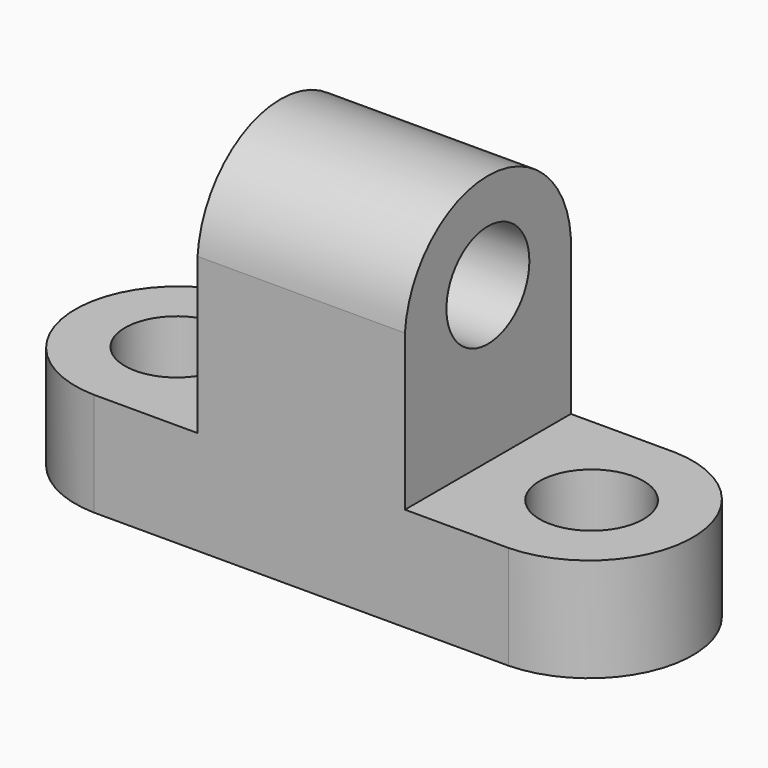
from build123d import *

# Parameters (mm, degrees)
F0_W      = 76.2
F0_H      = 25.4
F1_DEPTH  = 12.7
F2_R      = 6.35
F3_DEPTH  = 25.4
F4_W      = 25.4
F4_H      = 25.4
F5_DEPTH  = 31.75
F7_DEPTH  = 25.4
F9_DEPTH  = 25.4
F10_R     = 6.35
F11_DEPTH = 25.4
F13_DEPTH = 25.4


with BuildPart() as f1:
    # F0 (on Top) → F1 (new body)
    with BuildSketch(Plane.XY):
        with Locations((2.1738717566, 12.7)):
            Rectangle(F0_W, F0_H)
    extrude(amount=F1_DEPTH)

    # F2 (on face) → F3 (cut)
    with BuildSketch(Plane.XY.offset(12.7)):
        with Locations((-23.2261282434, 12.7)):
            Circle(F2_R)
        with Locations((27.5738717566, 12.7)):
            Circle(F2_R)
    extrude(amount=-F3_DEPTH, mode=Mode.SUBTRACT)

    # F4 (on face) → F5 (join)
    with BuildSketch(Plane.XY.offset(12.7)):
        with Locations((2.1738717566, 12.7)):
            Rectangle(F4_W, F4_H)
    extrude(amount=F5_DEPTH)

    # F6 (on face) → F7 (cut)
    with BuildSketch(Plane.XY.offset(12.7)):
        with BuildLine():
            ThreePointArc((27.5738717566, 25.4), (39.9715783926, 12.7), (27.5738717566, 0))
            Line((27.5738717566, 0), (40.2738717566, 0))
            Line((40.2738717566, 0), (40.2738717566, 25.4))
            Line((40.2738717566, 25.4), (27.5738717566, 25.4))
        make_face()
    extrude(amount=-F7_DEPTH, mode=Mode.SUBTRACT)

    # F8 (on face) → F9 (cut)
    with BuildSketch(Plane.XY.offset(12.7)):
        with BuildLine():
            ThreePointArc((-23.2261282434, 0), (-35.6730291754, 12.7), (-23.2261282434, 25.4))
            Line((-23.2261282434, 25.4), (-35.9261282434, 25.4))
            Line((-35.9261282434, 25.4), (-35.9261282434, 0))
            Line((-35.9261282434, 0), (-23.2261282434, 0))
        make_face()
    extrude(amount=-F9_DEPTH, mode=Mode.SUBTRACT)

    # F10 (on face) → F11 (cut)
    with BuildSketch(Plane.YZ.offset(14.8738717566)):
        with Locations((12.7, 31.75)):
            Circle(F10_R)
    extrude(amount=-F11_DEPTH, mode=Mode.SUBTRACT)

    # F12 (on face) → F13 (cut)
    with BuildSketch(Plane.YZ.offset(14.8738717566)):
        with BuildLine():
            ThreePointArc((0, 31.75), (12.7, 43.5445759726), (25.4, 31.75))
            Line((25.4, 31.75), (25.4, 44.45))
            Line((25.4, 44.45), (0, 44.45))
            Line((0, 44.45), (0, 31.75))
        make_face()
    extrude(amount=-F13_DEPTH, mode=Mode.SUBTRACT)


solid = f1.part
